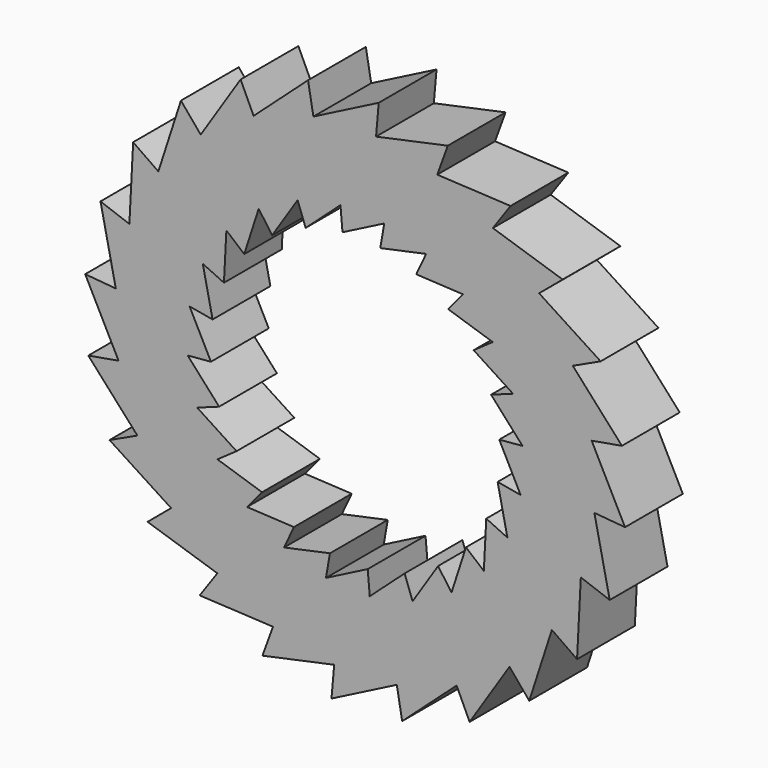
from build123d import *

# Parameters (mm, degrees)
F1_DEPTH = 4
F2_COUNT = 24


with BuildPart() as f1:
    # F0 (on Front) → F1 (new body)
    with BuildSketch(Plane.XZ):
        Polygon((5.1303021499, 14.0953893118), (0, 13), (1.7364817767, 9.8480775301), (1.3911704768, 7.889719833), (5, 8.6602540378), (4.4462618632, 12.2160040702), align=None)
    extrude(amount=F1_DEPTH)

    # F2: F1 ×24 about axis
    f2_axis = Axis((0, 0, 0), (0, -1, 0))


with BuildPart() as f1_1:
    add(f1.part)
    for i in range(1, F2_COUNT):
        add(f1.part.rotate(f2_axis, i * 360 / F2_COUNT))


solid = f1_1.part
